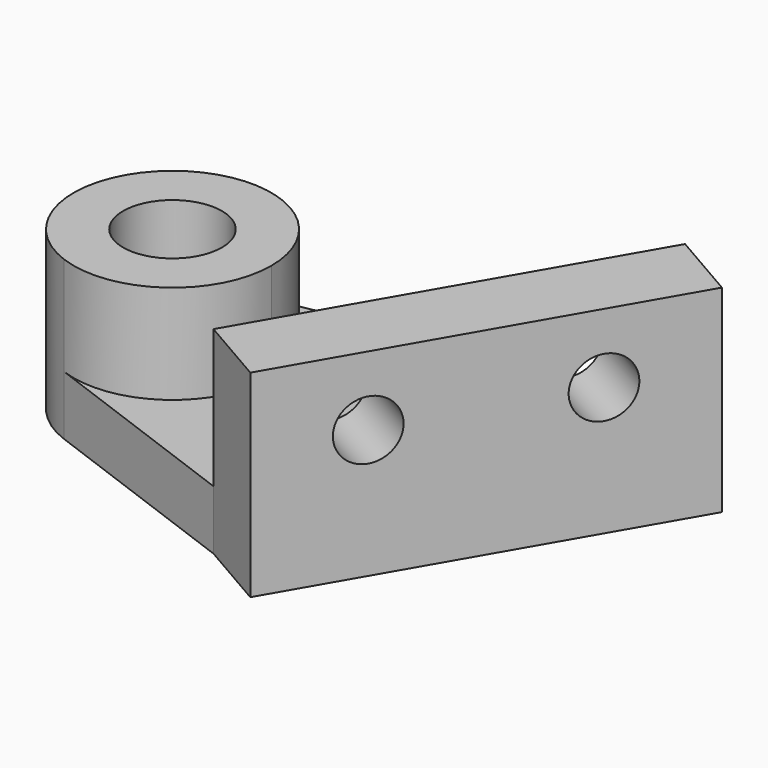
from build123d import *

# Parameters (mm, degrees)
F1_DEPTH = 9.525
F0_R     = 7.9375
F2_DEPTH = 25.4
F3_DEPTH = 31.75
F4_R     = 4.7625
F5_DEPTH = 12.7


with BuildPart() as f1:
    # F0 (on Top) → F1 (new body)
    with BuildSketch(Plane.XY):
        with BuildLine():
            ThreePointArc((-2.933616207, 15.6015871292), (10.135197771, 12.2185674751), (15.875, 0))
            ThreePointArc((15.875, 0), (9.0714869373, -13.0278067896), (-5.5075196531, -14.8890178411))
            Line((-5.5075196531, -14.8890178411), (28.575, -27.4963065702))
            Line((28.575, -27.4963065702), (60.325, 27.4963065702))
            Line((60.325, 27.4963065702), (-2.933616207, 15.6015871292))
        make_face()
    extrude(amount=F1_DEPTH)

    # F0 (on Top) → F2 (join)
    with BuildSketch(Plane.XY):
        with BuildLine():
            ThreePointArc((-5.5075196531, -14.8890178411), (9.0714869373, -13.0278067896), (15.875, 0))
            ThreePointArc((15.875, 0), (10.135197771, 12.2185674751), (-2.933616207, 15.6015871292))
            ThreePointArc((-2.933616207, 15.6015871292), (-15.8187370392, 1.3353589349), (-5.5075196531, -14.8890178411))
        make_face()
        Circle(F0_R, mode=Mode.SUBTRACT)
    extrude(amount=F2_DEPTH)

    # F0 (on Top) → F3 (join)
    with BuildSketch(Plane.XY):
        Polygon((71.3235226281, 21.1463065702), (60.325, 27.4963065702), (28.575, -27.4963065702), (39.5735226281, -33.8463065702), align=None)
    extrude(amount=F3_DEPTH)

    # F4 (on face) → F5 (cut)
    with BuildSketch(Plane(origin=(44.3360226281, -25.5974145991, 0), x_dir=(0.5, 0.8660254038, 0), z_dir=(0.8660254038, -0.5, 0))):
        with Locations((6.35, 20.6375)):
            Circle(F4_R)
        with Locations((38.1, 20.6375)):
            Circle(F4_R)
    extrude(amount=-F5_DEPTH, mode=Mode.SUBTRACT)


solid = f1.part
